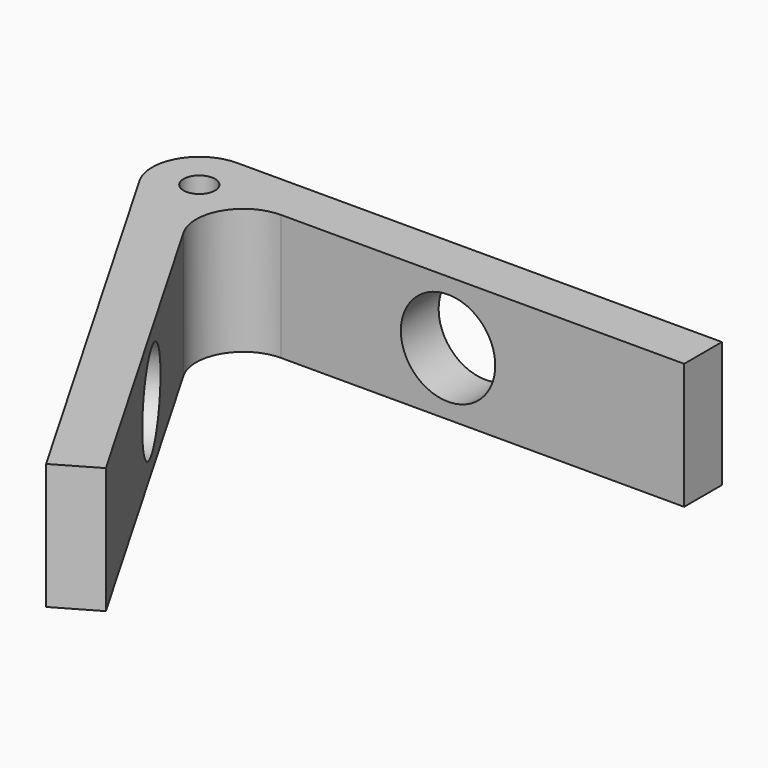
from build123d import *

# Parameters (mm, degrees)
F0_R     = 2.5
F1_DEPTH = 20
F2_R     = 7.5
F3_DEPTH = 25
F4_R     = 7.5
F5_DEPTH = 25


with BuildPart() as f1:
    # F0 (on Top) → F1 (new body)
    with BuildSketch(Plane.XY):
        with BuildLine():
            Line((90, 0), (12.9903810568, 0))
            ThreePointArc((12.9903810568, 0), (6.4951905284, -3.75), (6.4951905284, -11.25))
            Line((6.4951905284, -11.25), (45, -77.9422863406))
            Line((45, -77.9422863406), (51.4951905284, -74.1922863406))
            Line((51.4951905284, -74.1922863406), (19.4855715851, -18.75))
            ThreePointArc((19.4855715851, -18.75), (19.4855715851, -11.25), (25.9807621135, -7.5))
            Line((25.9807621135, -7.5), (90, -7.5))
            Line((90, -7.5), (90, 0))
        make_face()
        with Locations((12.9903810568, -7.5)):
            Circle(F0_R, mode=Mode.SUBTRACT)
    extrude(amount=F1_DEPTH)

    # F2 (on face) → F3 (cut)
    with BuildSketch(Plane(origin=(0, 0, 0), x_dir=(0.5, -0.8660254038, 0), z_dir=(-0.8660254038, -0.5, 0))):
        with Locations((52.5, 10)):
            Circle(F2_R)
    extrude(amount=-F3_DEPTH, mode=Mode.SUBTRACT)

    # F4 (on face) → F5 (cut)
    with BuildSketch(Plane(origin=(0, 0, 0), x_dir=(-1, 0, 0), z_dir=(0, 1, 0))):
        with Locations((-52.5, 10)):
            Circle(F4_R)
    extrude(amount=-F5_DEPTH, mode=Mode.SUBTRACT)


solid = f1.part
